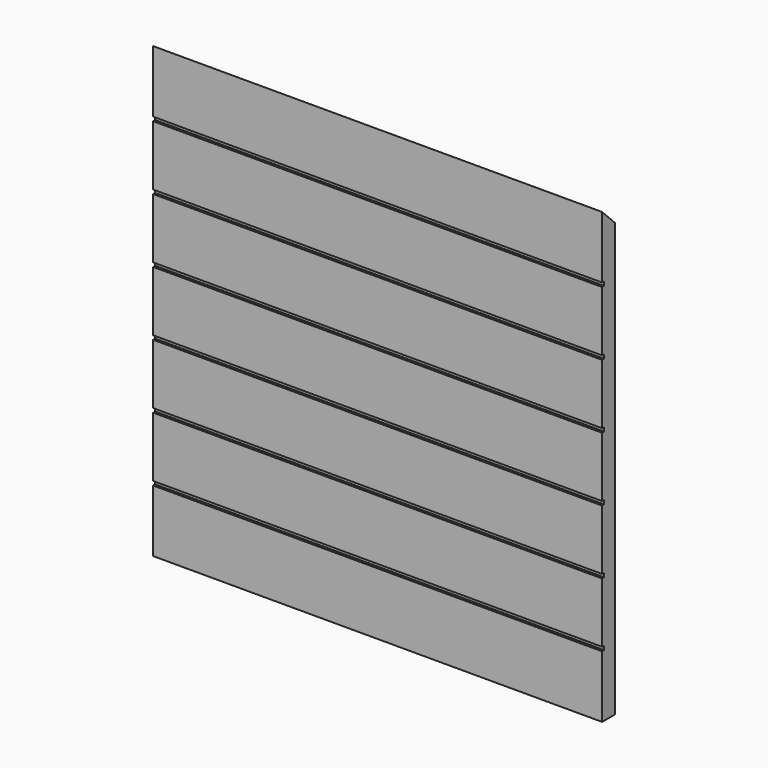
from build123d import *

# Parameters (mm, degrees)
F0_W     = 177.8
F0_H     = 177.8
F1_DEPTH = 6.35
F3_DEPTH = 177.801
F4_W     = 177.8
F4_H     = 1.5875
F5_DEPTH = 1


with BuildPart() as f1:
    # F0 (on Front) → F1 (new body)
    with BuildSketch(Plane.XZ):
        with Locations((88.9, -88.9)):
            Rectangle(F0_W, F0_H)
    extrude(amount=F1_DEPTH)

    # F2 (on face) → F3 (cut, through all)
    with BuildSketch(Plane(origin=(0, 0, 0), x_dir=(0, -1, 0), z_dir=(-1, 0, 0))):
        Polygon((0, -6.35), (6.35, 0), (0, 0), align=None)
    extrude(amount=-F3_DEPTH, mode=Mode.SUBTRACT)

    # F4 (on face) → F5 (cut)
    with BuildSketch(Plane.XZ.offset(6.35)):
        with Locations((88.9, -25.4)):
            Rectangle(F4_W, F4_H)
        with Locations((88.9, -50.8)):
            Rectangle(F4_W, F4_H)
        with Locations((88.9, -76.2)):
            Rectangle(F4_W, F4_H)
        with Locations((88.9, -101.6)):
            Rectangle(F4_W, F4_H)
        with Locations((88.9, -127)):
            Rectangle(F4_W, F4_H)
        with Locations((88.9, -152.4)):
            Rectangle(F4_W, F4_H)
    extrude(amount=-F5_DEPTH, mode=Mode.SUBTRACT)


solid = f1.part
